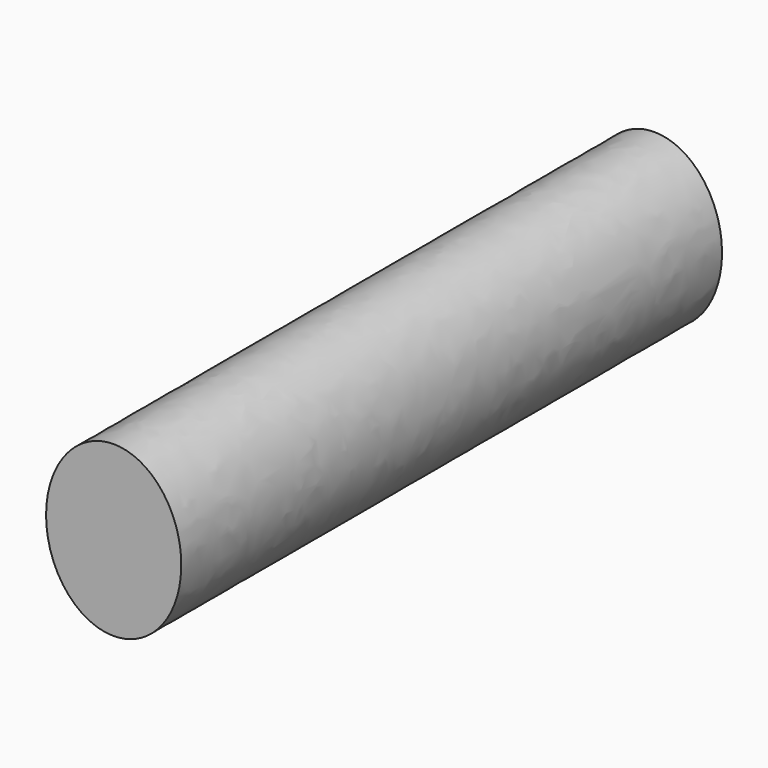
from build123d import *

# Parameters (mm, degrees)
F1_DEPTH = 200


with BuildPart() as f1:
    # F0 (on Front) → F1 (new body)
    with BuildSketch(Plane.XZ):
        with BuildLine():
            add(Edge.make_bspline(
                [(0, -25), (34.641016, -25), (17.320508, 12.5), (0, 50), (-17.320508, 12.5), (-34.641016, -25), (0, -25)],
                knots=[0, 0, 0, 2.094395, 2.094395, 4.18879, 4.18879, 6.283185, 6.283185, 6.283185], degree=2, weights=[1, 0.5, 1, 0.5, 1, 0.5, 1]))
        make_face()
    extrude(amount=-F1_DEPTH)


solid = f1.part
